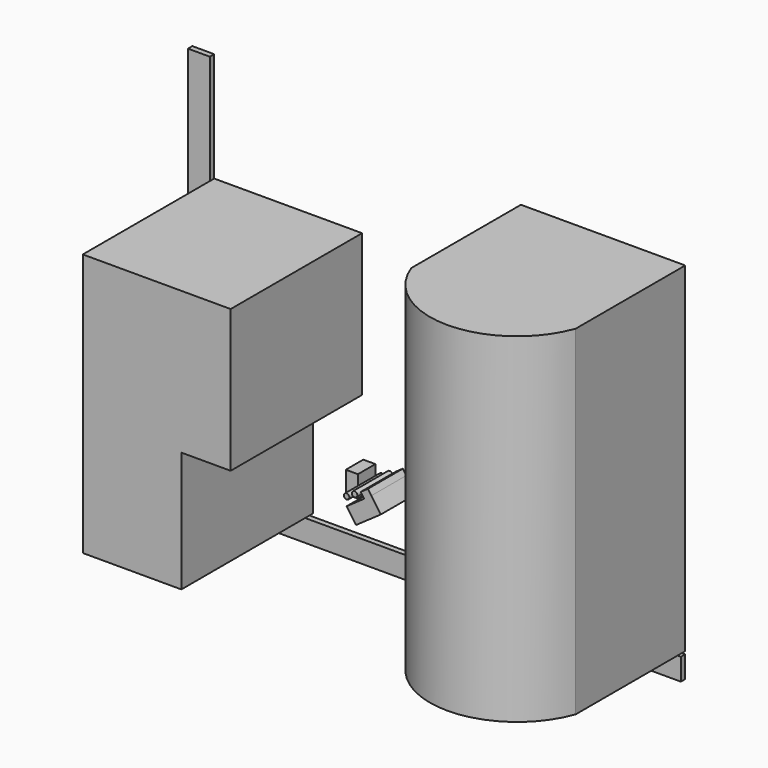
from build123d import *

# Parameters (mm, degrees)
F1_DEPTH = 762
F0_W     = 762
F0_H     = 1574.8
F2_DEPTH = 635
F4_DEPTH = 1574.8
F0_R     = 12.7
F5_DEPTH = 203.2
F0_W_2   = 56.222939
F0_H_2   = 99.639279
F6_DEPTH = 101.6
F0_W_3   = 2184.4
F0_H_3   = 101.6
F7_DEPTH = 25.4


with BuildPart() as f1:
    # F0 (on Front) → F1 (new body)
    with BuildSketch(Plane.XZ):
        Polygon((-958.619627, 1215.509644), (-958.619627, -3.690356), (-501.419627, -3.690356), (-501.419627, 555.109644), (-272.819627, 555.109644), (-272.819627, 1215.509644), (-501.419627, 1215.509644), align=None)
    extrude(amount=F1_DEPTH)

    # F0 (on Front) → F7 (join)
    with BuildSketch(Plane.XZ):
        with Locations((133.580373, -67.190356)):
            Rectangle(F0_W_3, F0_H_3)
        Polygon((-1060.219627, -117.990356), (-958.619627, -117.990356), (-958.619627, -16.390356), (-958.619627, -3.690356), (-958.619627, 1215.509644), (-958.619627, 1723.329544), (-1060.219627, 1723.329544), align=None)
    extrude(amount=F7_DEPTH)


with BuildPart() as f2:
    # F0 (on Front) → F2 (new body)
    with BuildSketch(Plane.XZ):
        with Locations((844.780373, 783.709644)):
            Rectangle(F0_W, F0_H)
    extrude(amount=F2_DEPTH)

    # F3 (on face) → F4 (join)
    with BuildSketch(Plane(origin=(0, 0, -3.690356), x_dir=(1, 0, 0), z_dir=(0, 0, -1))):
        with BuildLine():
            Line((463.780373, 635), (1225.780373, 635))
            ThreePointArc((1225.780373, 635), (844.780373, 902.998708), (463.780373, 635))
        make_face()
    extrude(amount=-F4_DEPTH)


with BuildPart() as f5:
    # F0 (on Front) → F5 (new body)
    with BuildSketch(Plane.XZ):
        Polygon((-182.035163, 212.691968), (-138.328639, 150.272582), (-23.893098, 230.40121), (-67.599623, 292.820596), (-100.29049, 269.930204), align=None)
        Polygon((-100.29049, 269.930204), (-67.599623, 292.820596), (-83.627647, 315.710988), (-116.318515, 292.820596), align=None)
        with Locations((-182.035163, 252.756282)):
            Circle(F0_R)
        with Locations((-144.926032, 273.85272)):
            Circle(F0_R)
    extrude(amount=F5_DEPTH)


with BuildPart() as f6:
    # F0 (on Front) → F6 (new body)
    with BuildSketch(Plane.XZ):
        with Locations((-239.181399, 243.000956)):
            Rectangle(F0_W_2, F0_H_2)
    extrude(amount=F6_DEPTH)


solid = Compound([f1.part, f2.part, f5.part, f6.part])
